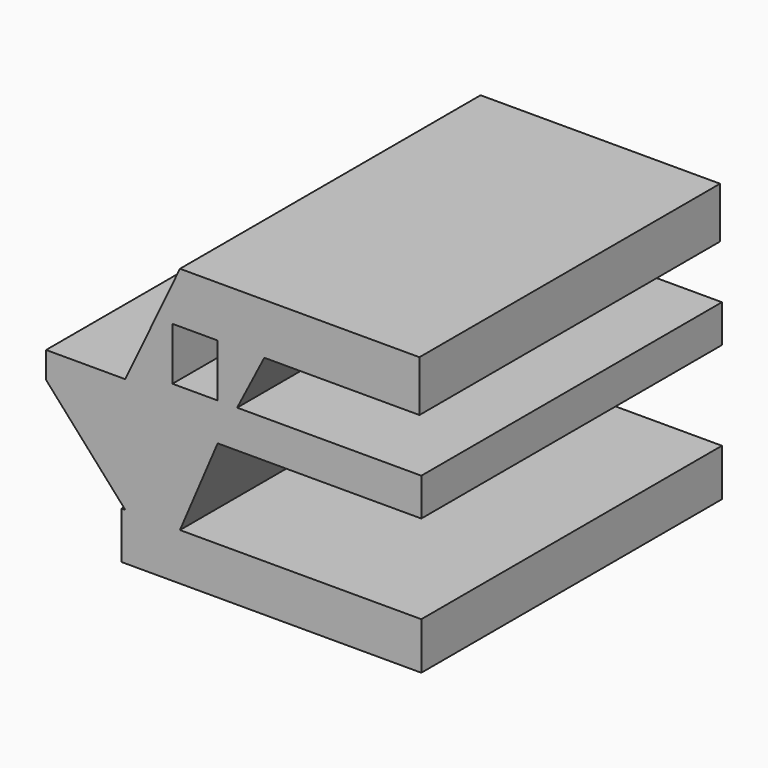
from build123d import *

# Parameters (mm, degrees)
F0_W     = 24.573456496
F0_H     = 8.1911524758
F0_W_2   = 74.8905315995
F0_H_2   = 14.6270543337
F0_W_3   = 48.7080998719
F0_H_3   = 11.7016462609
F1_DEPTH = 25.4
F2_DEPTH = 91.186


with BuildPart() as f1:
    # F0 (on Front) → F1 (new body)
    with BuildSketch(Plane.XZ):
        with Locations((-55.436545983, 4.0955762379)):
            Rectangle(F0_W, F0_H)
        Polygon((-26.1824317276, 43.8811704516), (-43.149817735, 8.1911524758), (-43.149817735, 0), (-67.723274231, 0), (-43.149817735, -27.4988673627), (-26.1824317276, -27.4988673627), (-14.4807854667, 0), (-28.5227615386, 0), (-28.5227615386, 11.7016462609), (-28.5227615386, 28.0839502811), (-14.4807854667, 28.0839502811), (-14.4807854667, 11.7016462609), (-12.1404575184, 11.7016462609), (-8.4471246955, 11.7016462609), (0, 28.0839502811), (48.1230206788, 28.0839502811), (48.1230206788, 43.8811704516), align=None)
        Polygon((-26.1824317276, -27.4988673627), (-43.149817735, -27.4988673627), (-44.3199835718, -27.4988673627), (-44.3199835718, -42.1259216964), (-26.1824317276, -42.1259216964), align=None)
        with Locations((11.2628340721, -34.8123945296)):
            Rectangle(F0_W_2, F0_H_2)
        Polygon((-28.5227615386, 0), (-14.4807854667, 0), (-12.1404575184, 4.5388182771), (-12.1404575184, 11.7016462609), (-14.4807854667, 11.7016462609), (-28.5227615386, 11.7016462609), align=None)
        Polygon((-12.1404575184, 4.5388182771), (-14.4807854667, 0), (-12.1404575184, 0), align=None)
        Polygon((-12.1404575184, 11.7016462609), (-12.1404575184, 4.5388182771), (-8.4471246955, 11.7016462609), align=None)
        Polygon((-8.4471246955, 11.7016462609), (-12.1404575184, 4.5388182771), (-12.1404575184, 0), (0, 0), (0, 11.7016462609), align=None)
        with Locations((24.3540499359, 5.8508231305)):
            Rectangle(F0_W_3, F0_H_3)
    extrude(amount=F1_DEPTH)

    # F2 (add): a face of the model
    f2_faces = [f1.faces().sort_by_distance(p)[0] for p in [
        (-55.436545983, -25.4, 6.7436206186),
    ]]
    extrude(f2_faces, amount=F2_DEPTH)


solid = f1.part
